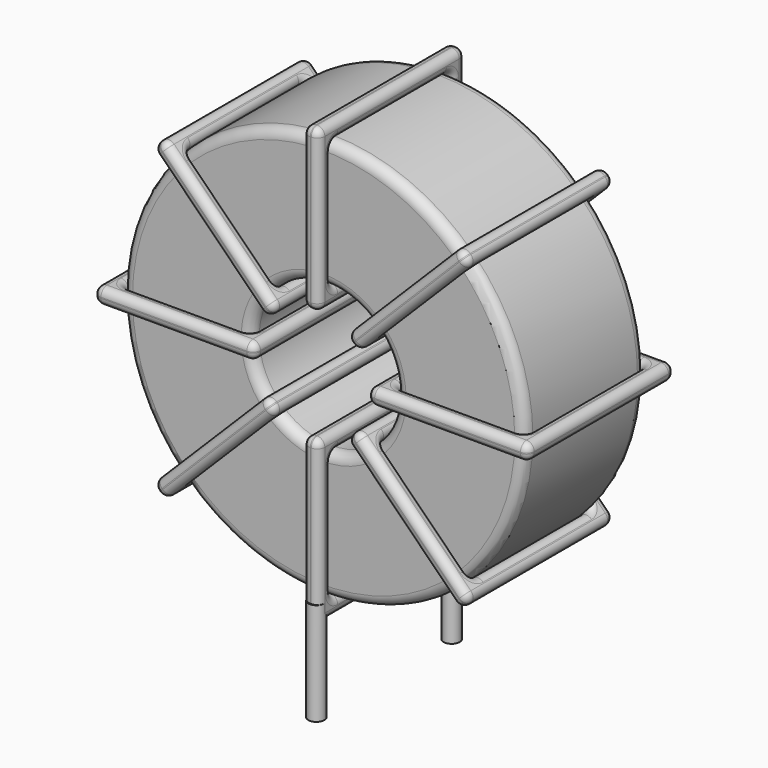
from build123d import *

# Parameters (mm, degrees)
SKETCH001_R       = 0.4
PAD001_DEPTH      = 0.8
PAD001_DEPTH_BACK = 4.3
SKETCH_R          = 10
SKETCH_R_2        = 3.6
PAD_DEPTH         = 3.75
FILLET_R          = 0.5
SKETCH003_W       = 8
SKETCH003_H       = 9.1
SKETCH003_W_2     = 6.4
SKETCH003_H_2     = 7.5
PAD002_DEPTH      = 0.4
FILLET001_R       = 0.376
SKETCH004_W       = 8
SKETCH004_H       = 9.1
SKETCH004_W_2     = 6.4
SKETCH004_H_2     = 7.5
PAD003_DEPTH      = 0.4
FILLET002_R       = 0.376
SKETCH005_W       = 8
SKETCH005_H       = 9.1
SKETCH005_W_2     = 6.4
SKETCH005_H_2     = 7.5
PAD004_DEPTH      = 0.4
FILLET003_R       = 0.376
SKETCH006_W       = 8
SKETCH006_H       = 9.1
SKETCH006_W_2     = 6.4
SKETCH006_H_2     = 7.5
PAD005_DEPTH      = 0.4
FILLET004_R       = 0.376


with BuildPart() as pad001:
    # Sketch001 → Pad001 (new body, two sides)
    with BuildSketch(Plane.XY.offset(1.3)) as pad001_sk:
        Circle(SKETCH001_R)
        with Locations((0, -8.4)):
            Circle(SKETCH001_R)
    extrude(amount=PAD001_DEPTH)
    extrude(pad001_sk.sketch, amount=-PAD001_DEPTH_BACK)


with BuildPart() as fillet_body:
    # Sketch → Pad (new body, symmetric)
    with BuildSketch(Plane.XZ.offset(4.2)):
        with Locations((0, 12.1)):
            Circle(SKETCH_R)
        with Locations((0, 12.1)):
            Circle(SKETCH_R_2, mode=Mode.SUBTRACT)
    extrude(amount=PAD_DEPTH, both=True)

    # Fillet
    fillet_edges = [fillet_body.edges().sort_by_distance(p)[0] for p in [
        (-3.6, -7.95, 12.1),
        (-10, -7.95, 12.1),
        (-10, -0.45, 12.1),
    ]]
    fillet(fillet_edges, radius=FILLET_R)


with BuildPart() as fillet001:
    # Sketch003 → Pad002 (new body, symmetric)
    with BuildSketch(Plane(origin=(0, 0.35, 12.1), x_dir=(1, 0, 0), z_dir=(0, 0, -1))):
        with Locations((-6.8, 4.55)):
            Rectangle(SKETCH003_W, SKETCH003_H)
        with Locations((-6.8, 4.55)):
            Rectangle(SKETCH003_W_2, SKETCH003_H_2, mode=Mode.SUBTRACT)
        with Locations((6.8, 4.55)):
            Rectangle(SKETCH003_W, SKETCH003_H)
        with Locations((6.8, 4.55)):
            Rectangle(SKETCH003_W_2, SKETCH003_H_2, mode=Mode.SUBTRACT)
    extrude(amount=PAD002_DEPTH, both=True)

    # Fillet001
    fillet001_edges = [fillet001.edges().sort_by_distance(p)[0] for p in [
        (-3.6, -7.95, 12.1),
        (-3.6, -0.45, 12.1),
        (-3.6, -4.2, 12.5),
        (-3.6, -4.2, 11.7),
        (-10.8, -8.75, 12.1),
        (-2.8, -8.75, 12.1),
        (-6.8, -8.75, 12.5),
        (-6.8, -8.75, 11.7),
        (-2.8, 0.35, 12.1),
        (-2.8, -4.2, 12.5),
        (-2.8, -4.2, 11.7),
        (3.6, -7.95, 12.1),
        (10, -7.95, 12.1),
        (6.8, -7.95, 12.5),
        (6.8, -7.95, 11.7),
        (10, -0.45, 12.1),
        (10, -4.2, 12.5),
        (10, -4.2, 11.7),
        (2.8, -8.75, 12.1),
        (10.8, -8.75, 12.1),
        (6.8, -8.75, 12.5),
        (6.8, -8.75, 11.7),
        (10.8, 0.35, 12.1),
        (10.8, -4.2, 12.5),
        (10.8, -4.2, 11.7),
        (-10, -7.95, 12.1),
        (-6.8, -7.95, 12.5),
        (-6.8, -7.95, 11.7),
        (3.6, -0.45, 12.1),
        (3.6, -4.2, 12.5),
        (3.6, -4.2, 11.7),
        (6.8, -0.45, 12.5),
        (6.8, -0.45, 11.7),
        (2.8, 0.35, 12.1),
        (6.8, 0.35, 12.5),
        (6.8, 0.35, 11.7),
        (2.8, -4.2, 12.5),
        (2.8, -4.2, 11.7),
        (-10.8, 0.35, 12.1),
        (-6.8, 0.35, 12.5),
        (-6.8, 0.35, 11.7),
        (-10.8, -4.2, 12.5),
        (-10.8, -4.2, 11.7),
        (-10, -0.45, 12.1),
        (-10, -4.2, 12.5),
        (-10, -4.2, 11.7),
        (-6.8, -0.45, 12.5),
        (-6.8, -0.45, 11.7),
    ]]
    fillet(fillet001_edges, radius=FILLET001_R)


with BuildPart() as fillet002:
    # Sketch004 → Pad003 (new body, symmetric)
    with BuildSketch(Plane(origin=(0, 0.35, 12.1), x_dir=(0.707108, 0, 0.707106), z_dir=(0.707106, 0, -0.707108))):
        with Locations((-6.8, 4.55)):
            Rectangle(SKETCH004_W, SKETCH004_H)
        with Locations((-6.8, 4.55)):
            Rectangle(SKETCH004_W_2, SKETCH004_H_2, mode=Mode.SUBTRACT)
        with Locations((6.8, 4.55)):
            Rectangle(SKETCH004_W, SKETCH004_H)
        with Locations((6.8, 4.55)):
            Rectangle(SKETCH004_W_2, SKETCH004_H_2, mode=Mode.SUBTRACT)
    extrude(amount=PAD003_DEPTH, both=True)

    # Fillet002
    fillet002_edges = [fillet002.edges().sort_by_distance(p)[0] for p in [
        (7.071076, -7.95, 19.17106),
        (7.071076, -0.45, 19.17106),
        (6.788234, -4.2, 19.453903),
        (7.353918, -4.2, 18.888217),
        (7.636762, 0.35, 19.736744),
        (1.979901, 0.35, 14.079897),
        (4.525489, 0.35, 17.191164),
        (5.091174, 0.35, 16.625478),
        (1.979901, -8.75, 14.079897),
        (1.697059, -4.2, 14.36274),
        (2.262744, -4.2, 13.797054),
        (-7.071076, -0.45, 5.02894),
        (-7.071076, -7.95, 5.02894),
        (-7.353918, -4.2, 5.311783),
        (-6.788234, -4.2, 4.746097),
        (-2.545587, -0.45, 9.554419),
        (-5.091174, -0.45, 7.574522),
        (-4.525489, -0.45, 7.008836),
        (-1.979901, -8.75, 10.120103),
        (-1.979901, 0.35, 10.120103),
        (-2.262744, -4.2, 10.402946),
        (-1.697059, -4.2, 9.83726),
        (-7.636762, -8.75, 4.463256),
        (-5.091174, -8.75, 7.574522),
        (-4.525489, -8.75, 7.008836),
        (2.545587, -7.95, 14.645581),
        (4.525489, -7.95, 17.191164),
        (5.091174, -7.95, 16.625478),
        (-2.545587, -7.95, 9.554419),
        (-5.091174, -7.95, 7.574522),
        (-4.525489, -7.95, 7.008836),
        (-2.82843, -4.2, 9.837262),
        (-2.262745, -4.2, 9.271575),
        (-7.636762, 0.35, 4.463256),
        (-7.919604, -4.2, 4.746099),
        (-7.35392, -4.2, 4.180413),
        (-5.091174, 0.35, 7.574522),
        (-4.525489, 0.35, 7.008836),
        (7.636762, -8.75, 19.736744),
        (4.525489, -8.75, 17.191164),
        (5.091174, -8.75, 16.625478),
        (7.35392, -4.2, 20.019587),
        (7.919604, -4.2, 19.453901),
        (2.545587, -0.45, 14.645581),
        (2.262745, -4.2, 14.928425),
        (2.82843, -4.2, 14.362738),
        (4.525489, -0.45, 17.191164),
        (5.091174, -0.45, 16.625478),
    ]]
    fillet(fillet002_edges, radius=FILLET002_R)


with BuildPart() as fillet003:
    # Sketch005 → Pad004 (new body, symmetric)
    with BuildSketch(Plane(origin=(0, 0.35, 12.1), x_dir=(0.707108, 0, -0.707106), z_dir=(-0.707106, 0, -0.707108))):
        with Locations((-6.8, 4.55)):
            Rectangle(SKETCH005_W, SKETCH005_H)
        with Locations((-6.8, 4.55)):
            Rectangle(SKETCH005_W_2, SKETCH005_H_2, mode=Mode.SUBTRACT)
        with Locations((6.8, 4.55)):
            Rectangle(SKETCH005_W, SKETCH005_H)
        with Locations((6.8, 4.55)):
            Rectangle(SKETCH005_W_2, SKETCH005_H_2, mode=Mode.SUBTRACT)
    extrude(amount=PAD004_DEPTH, both=True)

    # Fillet003
    fillet003_edges = [fillet003.edges().sort_by_distance(p)[0] for p in [
        (2.545587, -7.95, 9.554419),
        (7.071076, -0.45, 5.02894),
        (5.091174, -0.45, 7.574522),
        (4.525489, -0.45, 7.008836),
        (7.636762, 0.35, 4.463256),
        (7.636762, -8.75, 4.463256),
        (7.919604, -4.2, 4.746099),
        (7.35392, -4.2, 4.180413),
        (1.979901, 0.35, 10.120103),
        (5.091174, -8.75, 7.574522),
        (4.525489, -8.75, 7.008836),
        (-7.071076, -0.45, 19.17106),
        (-7.071076, -7.95, 19.17106),
        (-6.788234, -4.2, 19.453903),
        (-7.353918, -4.2, 18.888217),
        (-2.545587, -0.45, 14.645581),
        (-4.525489, -0.45, 17.191164),
        (-5.091174, -0.45, 16.625478),
        (-1.979901, 0.35, 14.079897),
        (-7.636762, 0.35, 19.736744),
        (-4.525489, 0.35, 17.191164),
        (-5.091174, 0.35, 16.625478),
        (-7.636762, -8.75, 19.736744),
        (-7.35392, -4.2, 20.019587),
        (-7.919604, -4.2, 19.453901),
        (2.545587, -0.45, 9.554419),
        (2.82843, -4.2, 9.837262),
        (2.262745, -4.2, 9.271575),
        (-2.545587, -7.95, 14.645581),
        (-4.525489, -7.95, 17.191164),
        (-5.091174, -7.95, 16.625478),
        (-2.262745, -4.2, 14.928425),
        (-2.82843, -4.2, 14.362738),
        (-1.979901, -8.75, 14.079897),
        (-4.525489, -8.75, 17.191164),
        (-5.091174, -8.75, 16.625478),
        (-1.697059, -4.2, 14.36274),
        (-2.262744, -4.2, 13.797054),
        (1.979901, -8.75, 10.120103),
        (2.262744, -4.2, 10.402946),
        (1.697059, -4.2, 9.83726),
        (5.091174, 0.35, 7.574522),
        (4.525489, 0.35, 7.008836),
        (7.071076, -7.95, 5.02894),
        (5.091174, -7.95, 7.574522),
        (4.525489, -7.95, 7.008836),
        (7.353918, -4.2, 5.311783),
        (6.788234, -4.2, 4.746097),
    ]]
    fillet(fillet003_edges, radius=FILLET003_R)


with BuildPart() as fillet004:
    # Sketch006 → Pad005 (new body, symmetric)
    with BuildSketch(Plane(origin=(0, 0.35, 12.1), x_dir=(0, 0, 1), z_dir=(1, 0, 0))):
        with Locations((-6.8, 4.55)):
            Rectangle(SKETCH006_W, SKETCH006_H)
        with Locations((-6.8, 4.55)):
            Rectangle(SKETCH006_W_2, SKETCH006_H_2, mode=Mode.SUBTRACT)
        with Locations((6.8, 4.55)):
            Rectangle(SKETCH006_W, SKETCH006_H)
        with Locations((6.8, 4.55)):
            Rectangle(SKETCH006_W_2, SKETCH006_H_2, mode=Mode.SUBTRACT)
    extrude(amount=PAD005_DEPTH, both=True)

    # Fillet004
    fillet004_edges = [fillet004.edges().sort_by_distance(p)[0] for p in [
        (0, -7.95, 22.1),
        (0, -0.45, 22.1),
        (-0.4, -4.2, 22.1),
        (0.4, -4.2, 22.1),
        (0, 0.35, 22.9),
        (0, 0.35, 14.9),
        (-0.4, 0.35, 18.9),
        (0.4, 0.35, 18.9),
        (0, -8.75, 14.9),
        (-0.4, -4.2, 14.9),
        (0.4, -4.2, 14.9),
        (0, -7.95, 2.1),
        (0, -7.95, 8.5),
        (-0.4, -7.95, 5.3),
        (0.4, -7.95, 5.3),
        (0, -0.45, 8.5),
        (-0.4, -4.2, 8.5),
        (0.4, -4.2, 8.5),
        (0, 0.35, 9.3),
        (0, 0.35, 1.3),
        (-0.4, 0.35, 5.3),
        (0.4, 0.35, 5.3),
        (0, -8.75, 1.3),
        (-0.4, -4.2, 1.3),
        (0.4, -4.2, 1.3),
        (0, -7.95, 15.7),
        (-0.4, -7.95, 18.9),
        (0.4, -7.95, 18.9),
        (0, -0.45, 2.1),
        (-0.4, -4.2, 2.1),
        (0.4, -4.2, 2.1),
        (-0.4, -0.45, 5.3),
        (0.4, -0.45, 5.3),
        (0, -8.75, 9.3),
        (-0.4, -8.75, 5.3),
        (0.4, -8.75, 5.3),
        (-0.4, -4.2, 9.3),
        (0.4, -4.2, 9.3),
        (0, -8.75, 22.9),
        (-0.4, -8.75, 18.9),
        (0.4, -8.75, 18.9),
        (-0.4, -4.2, 22.9),
        (0.4, -4.2, 22.9),
        (0, -0.45, 15.7),
        (-0.4, -4.2, 15.7),
        (0.4, -4.2, 15.7),
        (-0.4, -0.45, 18.9),
        (0.4, -0.45, 18.9),
    ]]
    fillet(fillet004_edges, radius=FILLET004_R)


solid = Compound([pad001.part, fillet_body.part, fillet001.part, fillet002.part, fillet003.part, fillet004.part])
